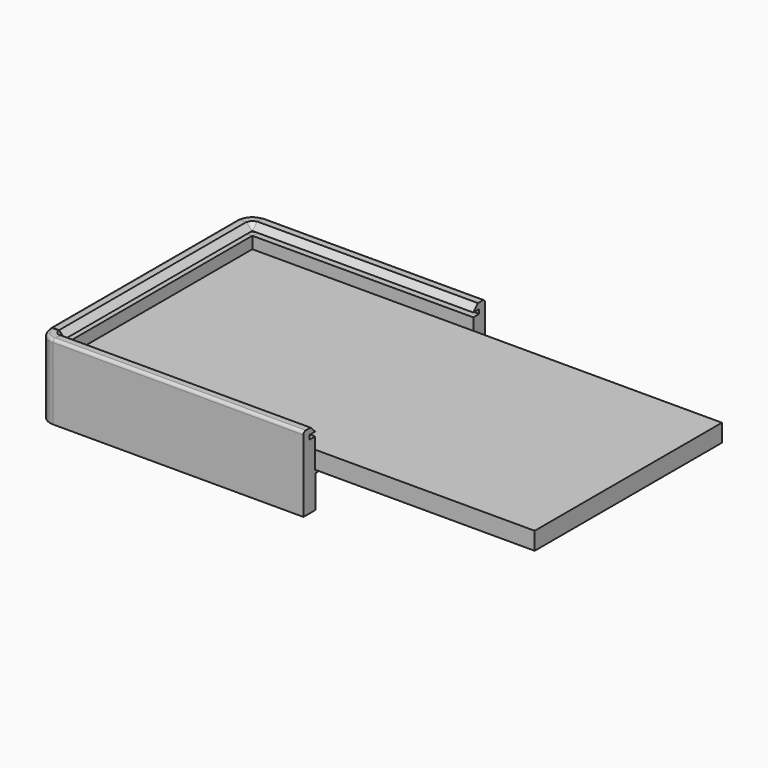
from build123d import *

# Parameters (mm, degrees)
SKETCH_W            = 319
SKETCH_H            = 159
PAD_DEPTH           = 12
SKETCH001_W         = 291
SKETCH001_H         = 131
POCKET_DEPTH        = 10
SKETCH002_R         = 1.5
POCKET001_DEPTH     = 10
PAD001_DEPTH        = 159
REVOLUTION_ANGLE    = 90
PAD004_DEPTH        = 170
REVOLUTION001_ANGLE = -90
PAD005_DEPTH        = 150
SKETCH020_W         = 2.1
SKETCH020_H         = 18.1
PAD006_DEPTH        = 20
SKETCH021_W         = 2.1
SKETCH021_H         = 17.87444
POCKET002_DEPTH     = 20
SKETCH022_R         = 1.5
POCKET003_DEPTH     = 5
SKETCH017_R         = 2
POCKET004_DEPTH     = 24.101


with BuildPart() as obj1:
    # Sketch → Pad (new body)
    with BuildSketch(Plane.XY):
        with Locations((159.5, 79.5)):
            Rectangle(SKETCH_W, SKETCH_H)
    extrude(amount=PAD_DEPTH)

    # Sketch001 (on Face5 of Pad) → Pocket (cut)
    with BuildSketch(Plane(origin=(0, 0, 0), x_dir=(1, 0, 0), z_dir=(0, 0, -1))):
        with Locations((159.5, -79.5)):
            Rectangle(SKETCH001_W, SKETCH001_H)
    extrude(amount=-POCKET_DEPTH, mode=Mode.SUBTRACT)

    # Sketch002 (on Face44 of Pad004) → Pocket001 (cut)
    with BuildSketch(Plane(origin=(0, 0, -4.1), x_dir=(1, 0, 0), z_dir=(0, 0, -1))):
        with Locations((70, -8)):
            Circle(SKETCH002_R)
        with Locations((70, -151)):
            Circle(SKETCH002_R)
        with Locations((249, -8)):
            Circle(SKETCH002_R)
        with Locations((249, -151)):
            Circle(SKETCH002_R)
        with Locations((159.5, -8)):
            Circle(SKETCH002_R)
        with Locations((159.5, -151)):
            Circle(SKETCH002_R)
        with Locations((8, -35.5)):
            Circle(SKETCH002_R)
        with Locations((8, -123.5)):
            Circle(SKETCH002_R)
        with Locations((311, -35.5)):
            Circle(SKETCH002_R)
        with Locations((311, -123.5)):
            Circle(SKETCH002_R)
    extrude(amount=-POCKET001_DEPTH, mode=Mode.SUBTRACT)


with BuildPart() as obj2:
    # Sketch010 → Pad001 (new body)
    with BuildSketch(Plane.XZ):
        with BuildLine():
            Line((-0.1, 20), (-0.1, -0.1))
            Line((-0.1, -0.1), (18, -0.1))
            Line((18, -0.1), (18, -4.1))
            Line((18, -4.1), (0.12556, -4.1))
            Line((0.12556, -4.1), (0.12556, -24.1))
            Line((-10.1, -24.1), (0.12556, -24.1))
            Line((-10.1, -24.1), (-10.1, 24.9))
            ThreePointArc((-8.1, 26.9), (-9.514214, 26.314214), (-10.1, 24.9))
            Line((-4.1, 26.9), (-8.1, 26.9))
            Line((-0.1, 22.9), (-4.1, 26.9))
            Line((-5.1, 22.9), (-0.1, 22.9))
            Line((-5.1, 20), (-5.1, 22.9))
            Line((-0.1, 20), (-5.1, 20))
        make_face()
    extrude(amount=-PAD001_DEPTH)

    # Sketch011 → Revolution (revolve)
    with BuildSketch(Plane.XZ):
        with BuildLine():
            Line((-0.1, 19.8), (-0.1, -24.1))
            Line((-0.1, -24.1), (-10.1, -24.1))
            Line((-10.1, -24.1), (-10.1, 24.7))
            ThreePointArc((-8.1, 26.7), (-9.514214, 26.114214), (-10.1, 24.7))
            Line((-4.1, 26.7), (-8.1, 26.7))
            Line((-0.1, 22.7), (-4.1, 26.7))
            Line((-5.1, 22.7), (-0.1, 22.7))
            Line((-5.1, 19.8), (-5.1, 22.7))
            Line((-0.1, 19.8), (-5.1, 19.8))
        make_face()
    revolve(axis=Axis((0, 0, 0), (0, 0, 1)), revolution_arc=REVOLUTION_ANGLE)

    # Sketch016 (on Face22 of Revolution) → Pad004 (join)
    with BuildSketch(Plane.YZ):
        with BuildLine():
            Line((-0.1, 20), (-0.1, -0.1))
            Line((-0.1, -0.1), (18, -0.1))
            Line((18, -0.1), (18, -4.1))
            Line((18, -4.1), (0.12556, -4.1))
            Line((0.12556, -4.1), (0.12556, -24.1))
            Line((-10.1, -24.1), (0.12556, -24.1))
            Line((-10.1, -24.1), (-10.1, 24.9))
            ThreePointArc((-8.1, 26.9), (-9.514214, 26.314214), (-10.1, 24.9))
            Line((-4.1, 26.9), (-8.1, 26.9))
            Line((-0.1, 22.9), (-4.1, 26.9))
            Line((-5.1, 22.9), (-0.1, 22.9))
            Line((-5.1, 20), (-5.1, 22.9))
            Line((-0.1, 20), (-5.1, 20))
        make_face()
    extrude(amount=PAD004_DEPTH)

    # Sketch018 (on Face15 of Pad001) → Revolution001 (revolve)
    with BuildSketch(Plane.XZ.offset(-159)):
        with BuildLine():
            Line((-0.1, 19.8), (-0.1, -24.1))
            Line((-0.1, -24.1), (-10.1, -24.1))
            Line((-10.1, -24.1), (-10.1, 24.7))
            ThreePointArc((-8.1, 26.7), (-9.514214, 26.114214), (-10.1, 24.7))
            Line((-4.1, 26.7), (-8.1, 26.7))
            Line((-0.1, 22.7), (-4.1, 26.7))
            Line((-5.1, 22.7), (-0.1, 22.7))
            Line((-5.1, 19.8), (-5.1, 22.7))
            Line((-0.1, 19.8), (-5.1, 19.8))
        make_face()
    revolve(axis=Axis((0, 159, 0), (0, 0, 1)), revolution_arc=REVOLUTION001_ANGLE)

    # Sketch019 (on Face24 of Revolution001) → Pad005 (join)
    with BuildSketch(Plane(origin=(0, 159, 0), x_dir=(0, -1, 0), z_dir=(-1, 0, 0))):
        with BuildLine():
            Line((-0.1, 20), (-0.1, -0.1))
            Line((-0.1, -0.1), (18, -0.1))
            Line((18, -0.1), (18, -4.1))
            Line((18, -4.1), (-0.1, -4.1))
            Line((-0.1, -4.1), (-0.1, -24.1))
            Line((-10.1, -24.1), (-0.1, -24.1))
            Line((-10.1, -24.1), (-10.1, 24.9))
            ThreePointArc((-8.1, 26.9), (-9.514214, 26.314214), (-10.1, 24.9))
            Line((-4.1, 26.9), (-8.1, 26.9))
            Line((-0.1, 22.9), (-4.1, 26.9))
            Line((-5.1, 22.9), (-0.1, 22.9))
            Line((-5.1, 20), (-5.1, 22.9))
            Line((-0.1, 20), (-5.1, 20))
        make_face()
    extrude(amount=-PAD005_DEPTH)

    # Sketch020 (on Face54 of Pad005) → Pad006 (join)
    with BuildSketch(Plane(origin=(150, 0, 0), x_dir=(0, 0, 1), z_dir=(1, 0, 0))):
        with Locations((-3.05, -150.05)):
            Rectangle(SKETCH020_W, SKETCH020_H)
    extrude(amount=PAD006_DEPTH)

    # Sketch021 (on Face50 of Pad006) → Pocket002 (cut)
    with BuildSketch(Plane(origin=(170, 0, 0), x_dir=(0, 0, 1), z_dir=(1, 0, 0))):
        with Locations((-3.05, -9.06278)):
            Rectangle(SKETCH021_W, SKETCH021_H)
    extrude(amount=-POCKET002_DEPTH, mode=Mode.SUBTRACT)

    # Sketch022 (on Face39 of Pocket002) → Pocket003 (cut)
    with BuildSketch(Plane(origin=(0, 0, -24.1), x_dir=(1, 0, 0), z_dir=(0, 0, -1))):
        with Locations((-5, -35.5)):
            Circle(SKETCH022_R)
        with Locations((-5, -123.5)):
            Circle(SKETCH022_R)
        with Locations((70, 5)):
            Circle(SKETCH022_R)
        with Locations((159.5, 5)):
            Circle(SKETCH022_R)
        with Locations((70, -164)):
            Circle(SKETCH022_R)
    extrude(amount=-POCKET003_DEPTH, mode=Mode.SUBTRACT)

    # Sketch017 → Pocket004 (cut, through all)
    with BuildSketch(Plane.XY):
        with Locations((70, 8)):
            Circle(SKETCH017_R)
        with Locations((8, 35.5)):
            Circle(SKETCH017_R)
        with Locations((8, 123.5)):
            Circle(SKETCH017_R)
        with Locations((70, 151)):
            Circle(SKETCH017_R)
        with Locations((159.5, 8)):
            Circle(SKETCH017_R)
        with Locations((159.5, 151)):
            Circle(SKETCH017_R)
    extrude(amount=-POCKET004_DEPTH, mode=Mode.SUBTRACT)


solid = Compound([obj1.part, obj2.part])
